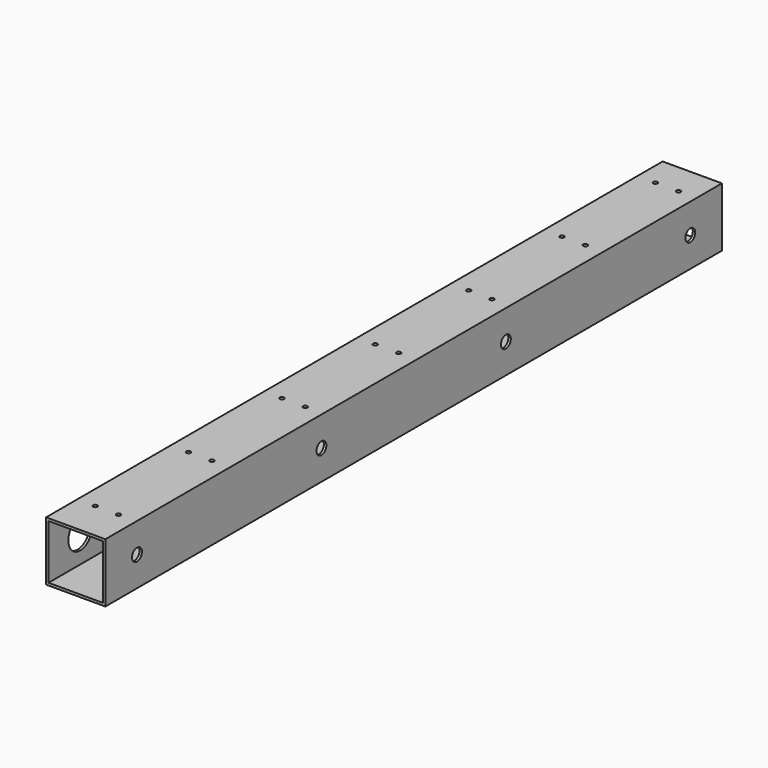
from build123d import *

# Parameters (mm, degrees)
F0_W     = 76.2
F0_H     = 76.2
F0_W_2   = 69.85
F0_H_2   = 69.85
F1_DEPTH = 990.6
F2_R     = 2.75
F3_DEPTH = 25.4
F4_R     = 7.9375
F5_DEPTH = 25.4
F6_R     = 19.05
F7_DEPTH = 25.4


with BuildPart() as f1:
    # F0 (on Front) → F1 (new body)
    with BuildSketch(Plane.XZ):
        Rectangle(F0_W, F0_H)
        Rectangle(F0_W_2, F0_H_2, mode=Mode.SUBTRACT)
    extrude(amount=F1_DEPTH)

    # F2 (on face) → F3 (cut)
    with BuildSketch(Plane.XY.offset(38.1)):
        with Locations((-15.0013, -940.6)):
            Circle(F2_R)
        with Locations((14.9987, -940.6)):
            Circle(F2_R)
        with Locations((14.9987, -790.6)):
            Circle(F2_R)
        with Locations((-15.0013, -790.6)):
            Circle(F2_R)
        with Locations((14.9987, -640.6)):
            Circle(F2_R)
        with Locations((-15.0013, -640.6)):
            Circle(F2_R)
        with Locations((14.9987, -490.6)):
            Circle(F2_R)
        with Locations((-15.0013, -490.6)):
            Circle(F2_R)
        with Locations((14.9987, -340.6)):
            Circle(F2_R)
        with Locations((-15.0013, -340.6)):
            Circle(F2_R)
        with Locations((14.9987, -190.6)):
            Circle(F2_R)
        with Locations((-15.0013, -190.6)):
            Circle(F2_R)
        with Locations((14.9987, -40.6)):
            Circle(F2_R)
        with Locations((-15.0013, -40.6)):
            Circle(F2_R)
    extrude(amount=-F3_DEPTH, mode=Mode.SUBTRACT)

    # F4 (on face) → F5 (cut)
    with BuildSketch(Plane.YZ.offset(38.1)):
        with Locations((-939.8, 0)):
            Circle(F4_R)
        with Locations((-643.466667, 0)):
            Circle(F4_R)
        with Locations((-347.133333, 0)):
            Circle(F4_R)
        with Locations((-50.8, 0)):
            Circle(F4_R)
    extrude(amount=-F5_DEPTH, mode=Mode.SUBTRACT)

    # F6 (on face) → F7 (cut)
    with BuildSketch(Plane(origin=(-38.1, 0, 0), x_dir=(0, -1, 0), z_dir=(-1, 0, 0))):
        with BuildLine():
            Line((643.466667, 0), (662.516667, 0))
            ThreePointArc((662.516667, 0), (643.466667, 19.05), (624.416667, 0))
            Line((624.416667, 0), (643.466667, 0))
        make_face()
        with Locations((50.8, 0)):
            Circle(F6_R)
        with BuildLine():
            ThreePointArc((179.916667, 0), (198.966667, -19.05), (218.016667, 0))
            Line((218.016667, 0), (179.916667, 0))
        make_face()
        with BuildLine():
            Line((179.916667, 0), (218.016667, 0))
            ThreePointArc((218.016667, 0), (198.966667, 19.05), (179.916667, 0))
        make_face()
        with BuildLine():
            ThreePointArc((328.083333, 0), (347.133333, -19.05), (366.183333, 0))
            Line((366.183333, 0), (347.133333, 0))
            Line((347.133333, 0), (328.083333, 0))
        make_face()
        with BuildLine():
            Line((347.133333, 0), (366.183333, 0))
            ThreePointArc((366.183333, 0), (347.133333, 19.05), (328.083333, 0))
            Line((328.083333, 0), (347.133333, 0))
        make_face()
        with BuildLine():
            ThreePointArc((476.25, 0), (495.3, -19.05), (514.35, 0))
            Line((514.35, 0), (476.25, 0))
        make_face()
        with BuildLine():
            Line((476.25, 0), (514.35, 0))
            ThreePointArc((514.35, 0), (495.3, 19.05), (476.25, 0))
        make_face()
        with BuildLine():
            ThreePointArc((624.416667, 0), (643.466667, -19.05), (662.516667, 0))
            Line((662.516667, 0), (643.466667, 0))
            Line((643.466667, 0), (624.416667, 0))
        make_face()
        with BuildLine():
            ThreePointArc((958.85, 0), (939.8, 19.05), (920.75, 0))
            ThreePointArc((920.75, 0), (939.8, -19.05), (958.85, 0))
        make_face()
        with BuildLine():
            ThreePointArc((810.683333, 0), (791.633333, 19.05), (772.583333, 0))
            Line((772.583333, 0), (810.683333, 0))
        make_face()
        with BuildLine():
            Line((810.683333, 0), (772.583333, 0))
            ThreePointArc((772.583333, 0), (791.633333, -19.05), (810.683333, 0))
        make_face()
    extrude(amount=-F7_DEPTH, mode=Mode.SUBTRACT)


solid = f1.part
